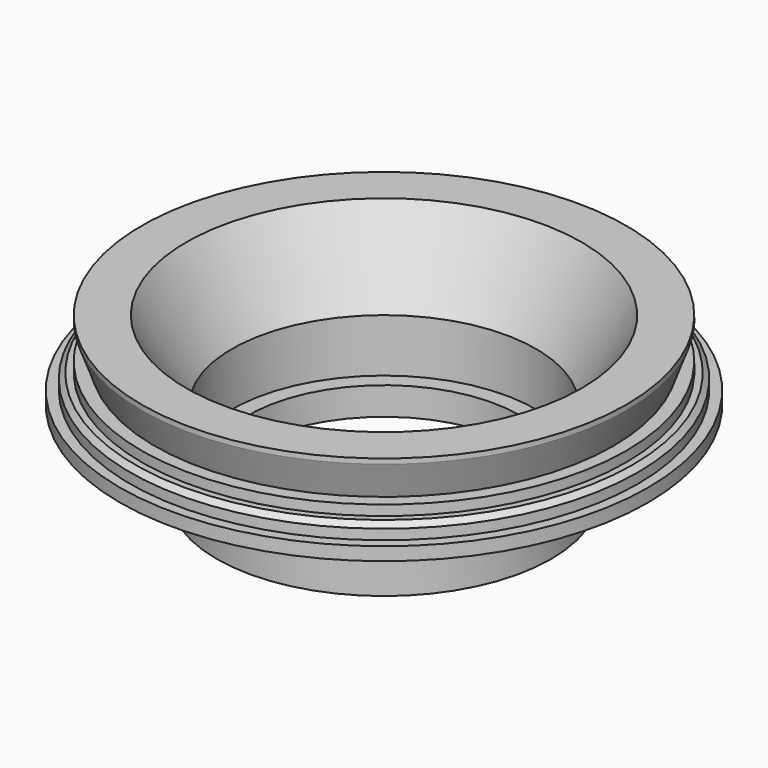
from build123d import *


with BuildPart() as f1:
    # F0 (on Front) → F1 (revolve)
    with BuildSketch(Plane.XZ):
        Polygon((23.9, -34.5), (19.503332, -34.5), (15, -42.3), (15, -47.55), (13.4, -47.55), (13.4, -50.3), (16.5, -50.3), (16.5, -42.3), (26.05, -42.3), (26.05, -41), (25.05, -41), (25.05, -40), (24.55, -39.5), (23.9, -39.5), (23.9, -38.5), (22.626104, -38.5), (23.9, -35), align=None)
    revolve(axis=Axis((0, 0, -9.429786), (0, 0, -1)))


solid = f1.part
